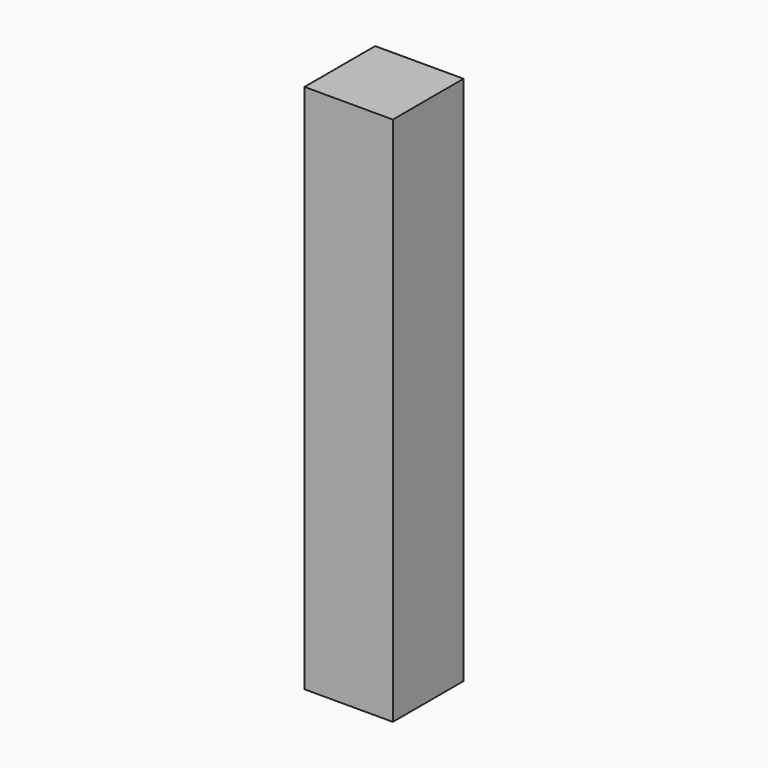
from build123d import *

# Parameters (mm, degrees)
SKETCH_W  = 100
SKETCH_H  = 100
PAD_DEPTH = 300


with BuildPart() as part:
    # Sketch → Pad (new body, symmetric)
    with BuildSketch(Plane.XY):
        Rectangle(SKETCH_W, SKETCH_H)
    extrude(amount=PAD_DEPTH, both=True)


solid = part.part
